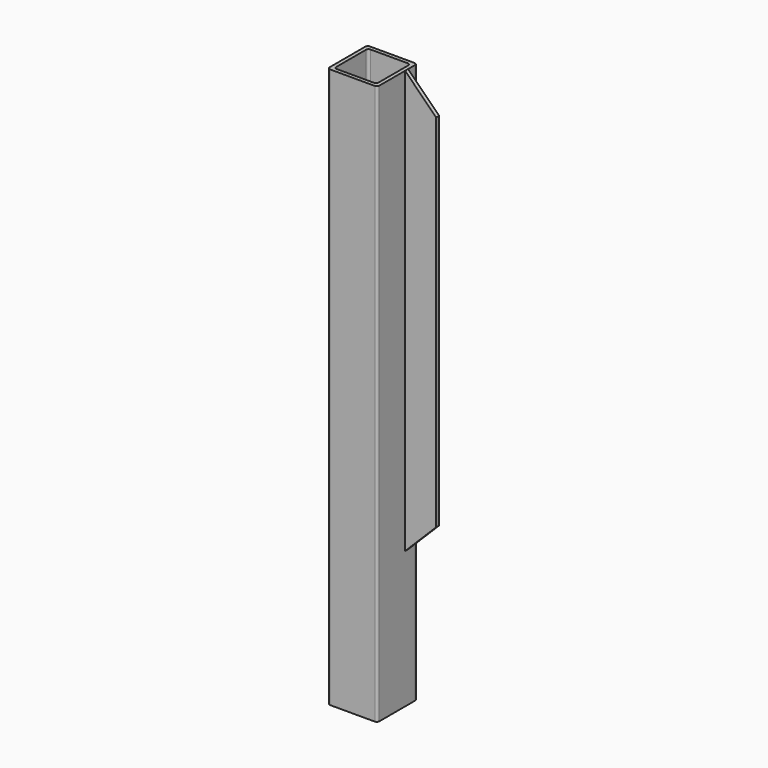
from build123d import *

# Parameters (mm, degrees)
F1_DEPTH = 225
F2_W     = 3
F2_H     = 340
F3_DEPTH = 25
F5_DEPTH = 12.001


with BuildPart() as f1:
    # F0 (on Top) → F1 (new body, symmetric)
    with BuildSketch(Plane.XY):
        with BuildLine():
            ThreePointArc((20, 18), (19.414214, 19.414214), (18, 20))
            Line((18, 20), (-18, 20))
            ThreePointArc((-18, 20), (-19.414214, 19.414214), (-20, 18))
            Line((-20, 18), (-20, -18))
            ThreePointArc((-20, -18), (-19.414214, -19.414214), (-18, -20))
            Line((-18, -20), (18, -20))
            ThreePointArc((18, -20), (19.414214, -19.414214), (20, -18))
            Line((20, -18), (20, 18))
        make_face()
        with BuildLine():
            Line((-15, 17), (15, 17))
            ThreePointArc((15, 17), (16.414214, 16.414214), (17, 15))
            Line((17, 15), (17, -15))
            ThreePointArc((17, -15), (16.414214, -16.414214), (15, -17))
            Line((15, -17), (-15, -17))
            ThreePointArc((-15, -17), (-16.414214, -16.414214), (-17, -15))
            Line((-17, -15), (-17, 15))
            ThreePointArc((-17, 15), (-16.414214, 16.414214), (-15, 17))
        make_face(mode=Mode.SUBTRACT)
    extrude(amount=F1_DEPTH, both=True)

    # F2 (on face) → F3 (join)
    with BuildSketch(Plane.YZ.offset(20)):
        with Locations((9.5, 55)):
            Rectangle(F2_W, F2_H)
    extrude(amount=F3_DEPTH)

    # F4 (on face) → F5 (cut, through all)
    with BuildSketch(Plane.XZ.offset(-8)):
        Polygon((45, 225), (20, 225), (45, 200), align=None)
        Polygon((45, -115), (45, -90), (20, -115), align=None)
    extrude(amount=-F5_DEPTH, mode=Mode.SUBTRACT)


solid = f1.part
